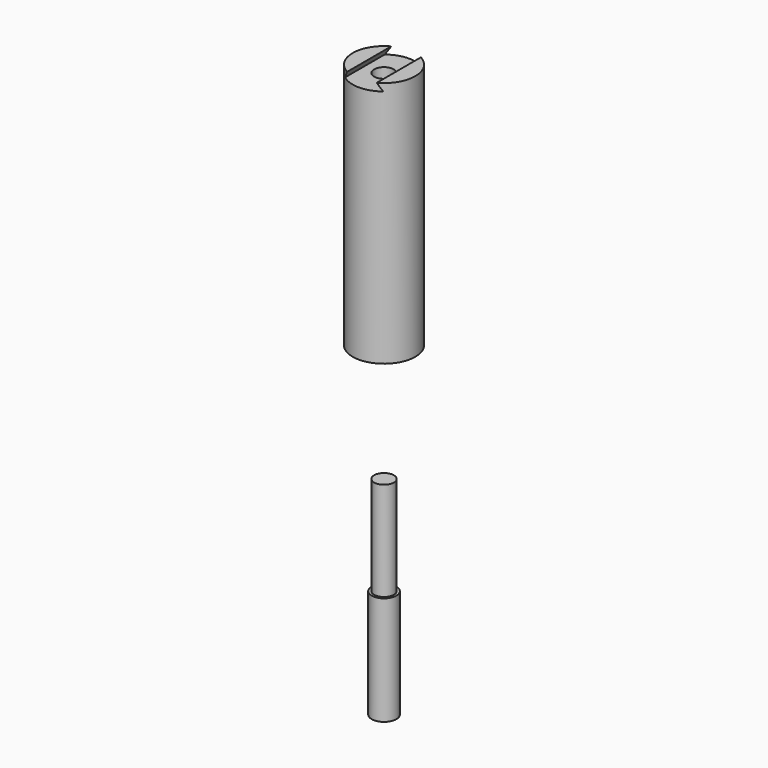
from build123d import *

# Parameters (mm, degrees)
F0_W     = 6.3360925007
F0_H     = 50
F3_DEPTH = 12.5
F5_D     = 4
F6_D     = 5
F6_DEPTH = 30
F6_TIP   = 1.5021515476
F7_W     = 2
F7_H     = 20


with BuildPart() as f1:
    # F0 (on Front) → F1 (revolve)
    with BuildSketch(Plane.XZ):
        with Locations((3.1680462503, 25)):
            Rectangle(F0_W, F0_H)
    revolve(axis=Axis((0, 0, 25), (0, 0, 1)))

    # F2 (on Front) → F3 (cut, symmetric)
    with BuildSketch(Plane.XZ):
        Polygon((3, 50), (3, 51.5), (-3, 51.5), (-3, 50), (-3.8660254038, 48.5), (-3, 48.5), (3, 48.5), align=None)
        Polygon((3.8660254038, 48.5), (3, 50), (3, 48.5), align=None)
    extrude(amount=F3_DEPTH, both=True, mode=Mode.SUBTRACT)

    # F5 (through all)
    with Locations(Plane(origin=(0, 0, 0), x_dir=(1, 0, 0), z_dir=(0, 0, -1))):
        with Locations((0, 0)):
            Hole(F5_D / 2)

    # F6
    with Locations(Plane(origin=(0, 0, 0), x_dir=(1, 0, 0), z_dir=(0, 0, -1))):
        with Locations((0, 0)):
            Hole(F6_D / 2, depth=F6_DEPTH)
            with Locations((0, 0, -(F6_DEPTH + F6_TIP / 2))):  # 118° drill point
                Cone(0, F6_D / 2, F6_TIP, mode=Mode.SUBTRACT)


with BuildPart() as f8:
    # F7 (on Right) → F8 (revolve)
    with BuildSketch(Plane.YZ):
        with Locations((-1, -33.7980591059)):
            Rectangle(F7_W, F7_H)
        Polygon((0, -65.7980591059), (0, -43.7980591059), (-2, -43.7980591059), (-2.5, -43.7980591059), (-2.5, -65.7980591059), align=None)
    revolve(axis=Axis((0, 0, -33.7980591059), (0, 0, -1)))


solid = Compound([f1.part, f8.part])
